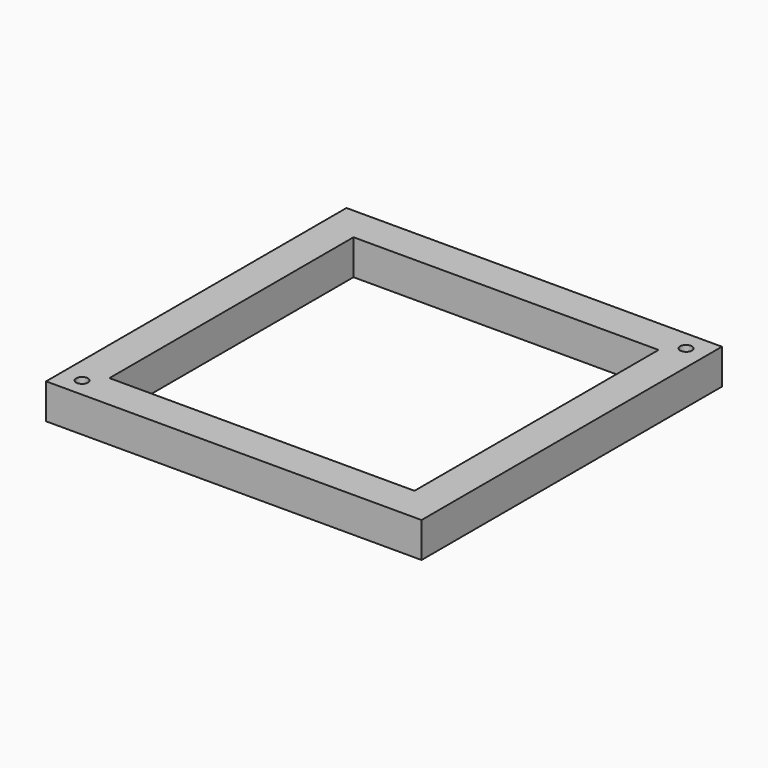
from build123d import *

# Parameters (mm, degrees)
F0_W     = 203.2
F0_H     = 203.2
F1_DEPTH = 19.05
F2_W     = 165.1
F2_H     = 165.1
F3_DEPTH = 19.051
F5_DEPTH = 19.051


with BuildPart() as f1:
    # F0 (on Top) → F1 (new body)
    with BuildSketch(Plane.XY):
        with Locations((-20.2645299196, 37.1341121554)):
            Rectangle(F0_W, F0_H)
    extrude(amount=F1_DEPTH)

    # F2 (on face) → F3 (cut, through all)
    with BuildSketch(Plane.XY.offset(19.05)):
        with Locations((-20.2645299196, 37.1341121554)):
            Rectangle(F2_W, F2_H)
    extrude(amount=-F3_DEPTH, mode=Mode.SUBTRACT)

    # F4 (on face) → F5 (cut, through all)
    with BuildSketch(Plane.XY.offset(19.05)):
        with BuildLine():
            ThreePointArc((-107.3236708058, -54.3133095216), (-111.6306122296, -51.3469424483), (-112.8665581212, -56.4284300055))
            ThreePointArc((-112.8665581212, -56.4284300055), (-109.366729382, -57.2796765948), (-107.3236708058, -54.3133095216))
        make_face()
        with BuildLine():
            ThreePointArc((73.6524293098, 128.0401629025), (73.4153509009, 129.2440074624), (72.739521137, 130.2680689969))
            ThreePointArc((72.739521137, 130.2680689969), (67.5395077186, 126.8363183426), (73.6524293098, 128.0401629025))
        make_face()
    extrude(amount=-F5_DEPTH, mode=Mode.SUBTRACT)


solid = f1.part
